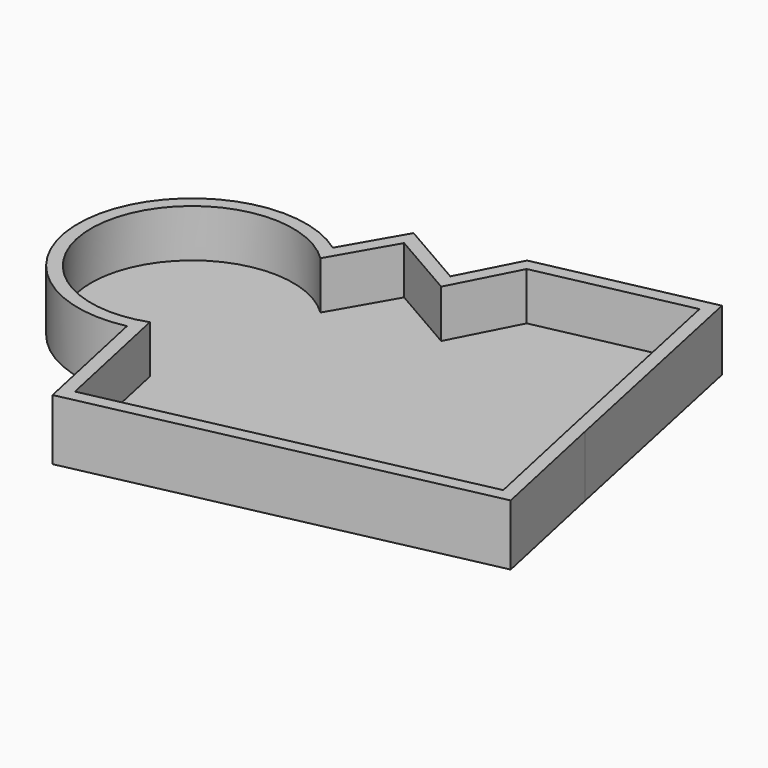
from build123d import *

# Parameters (mm, degrees)
F1_DEPTH = 11.684
F2_DEPTH = 25
F3_DEPTH = 13
F4_T     = -2.5


with BuildPart() as f1:
    # F0 (on Top) → F1 (new body)
    with BuildSketch(Plane.XY):
        with BuildLine():
            Line((-101.0389998555, 31.3125476241), (-114.6383360028, 39.1371101141))
            ThreePointArc((-114.6383360028, 39.1371101141), (-148.8700631478, 25.8791054822), (-122.8343620896, 0))
            Line((-122.8343620896, 0), (-47.8479606974, 16.1763411877))
            Line((-47.8479606974, 16.1763411877), (-57.3485940695, 60.8779378235))
            Line((-57.3485940695, 60.8779378235), (-89.3066003919, 54.0857575834))
            Line((-89.3066003919, 54.0857575834), (-101.0389998555, 31.3125476241))
        make_face()
    extrude(amount=F1_DEPTH)

    # F2 (add): a face of the model
    f2_faces = [f1.faces().sort_by_distance(p)[0] for p in [
        (-85.3411613935, 8.0881705939, 5.842),
    ]]
    extrude(f2_faces, amount=F2_DEPTH)

    # F3 (add): a face of the model
    f3_faces = [f1.faces().sort_by_distance(p)[0] for p in [
        (-107.8386679292, 35.2248288691, 5.842),
    ]]
    extrude(f3_faces, amount=F3_DEPTH)

    # F4
    f4_openings = [f1.faces().sort_by_distance(p)[0] for p in [
        (-92.967353, 17.456515, 11.684),
    ]]
    offset(amount=F4_T, openings=f4_openings, kind=Kind.INTERSECTION)


solid = f1.part
